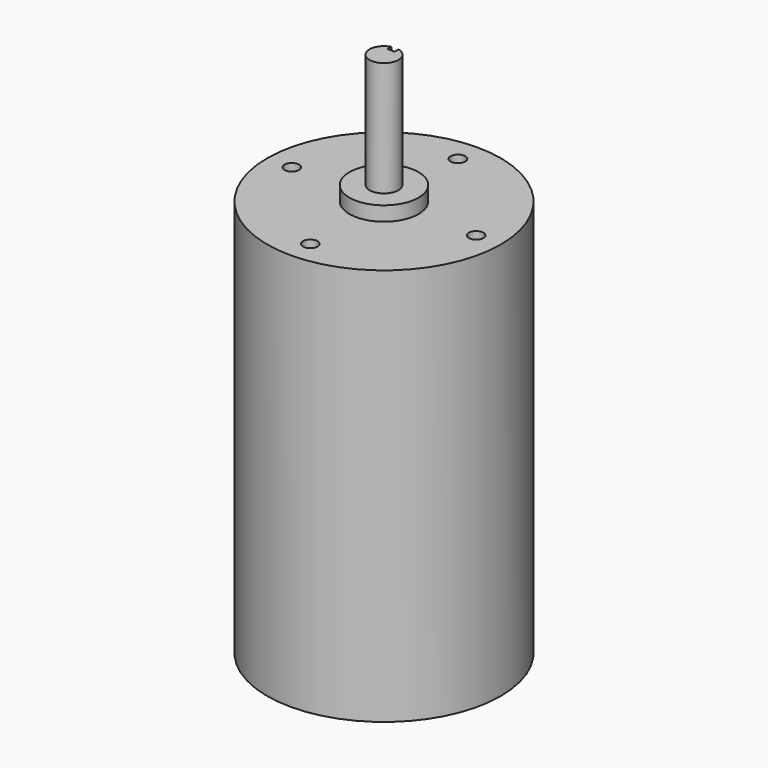
from build123d import *

# Parameters (mm, degrees)
F0_R     = 32.205
F1_DEPTH = 109.601
F2_R     = 9.525
F3_DEPTH = 3.9878
F4_R     = 3.9751
F5_DEPTH = 31.623
F7_DEPTH = 28.6004
F9_D     = 4.0386
F9_DEPTH = 12
F9_TIP   = 1.213317848


with BuildPart() as f1:
    # F0 (on Top) → F1 (new body)
    with BuildSketch(Plane.XY):
        Circle(F0_R)
    extrude(amount=F1_DEPTH)

    # F2 (on face) → F3 (join)
    with BuildSketch(Plane.XY.offset(109.601)):
        Circle(F2_R)
    extrude(amount=F3_DEPTH)

    # F4 (on face) → F5 (join)
    with BuildSketch(Plane.XY.offset(113.5888)):
        Circle(F4_R)
    extrude(amount=F5_DEPTH)

    # F6 (on face) → F7 (cut)
    with BuildSketch(Plane.XY.offset(145.2118)):
        with BuildLine():
            Line((0.9462931883, 2.5), (0.9462931883, 3.8608223492))
            ThreePointArc((0.9462931883, 3.8608223492), (-0.0554917727, 3.9747126529), (-1.0537068117, 3.8328999419))
            Line((-1.0537068117, 3.8328999419), (-1.0537068117, 2.5))
            Line((-1.0537068117, 2.5), (0.9462931883, 2.5))
        make_face()
    extrude(amount=-F7_DEPTH, mode=Mode.SUBTRACT)

    # F9
    with Locations(Plane.XY.offset(109.601)):
        with Locations((0.0541911848, 25.3999421912), (25.4, 0), (-25.4, 0), (0, -25.4)):
            Hole(F9_D / 2, depth=F9_DEPTH)
            with Locations((0, 0, -(F9_DEPTH + F9_TIP / 2))):  # 118° drill point
                Cone(0, F9_D / 2, F9_TIP, mode=Mode.SUBTRACT)


solid = f1.part
